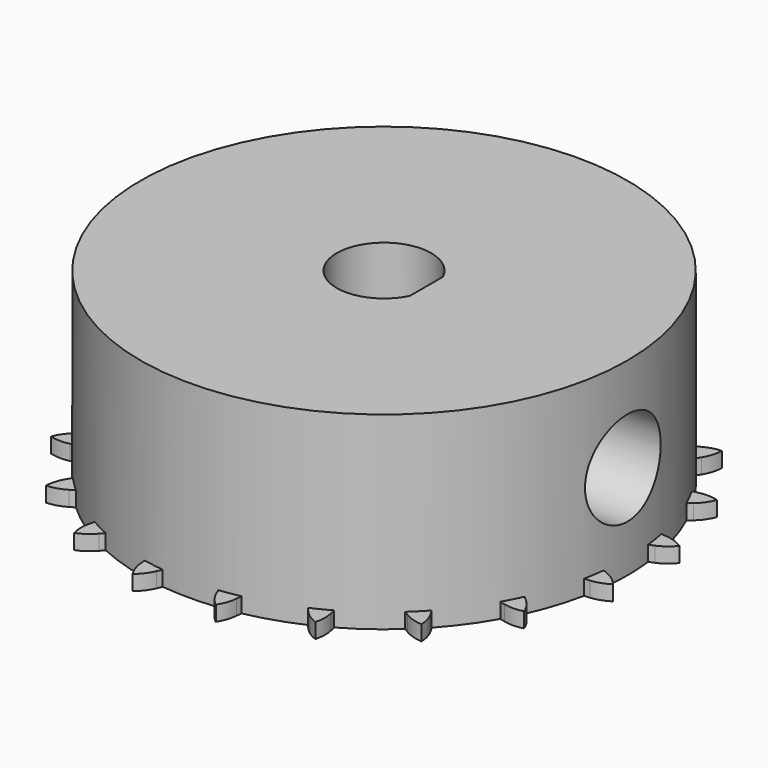
from build123d import *

# Parameters (mm, degrees)
PAD_DEPTH        = 0.8
SKETCH_R         = 12.875
PAD001_DEPTH     = 10
POCKET_DEPTH     = 20
HOLE_D           = 3.25
HOLE_DEPTH       = 16
HOLE_CBORE_D     = 5
HOLE_CBORE_DEPTH = 7.5


with BuildPart() as part:
    # Sprocket → Pad (new body)
    with BuildSketch(Plane.XY):
        with BuildLine():
            ThreePointArc((-2.196217, 13.866366), (-1.837454, 13.501085), (-1.581238, 13.057808))
            Line((-1.581238, 13.057808), (-1.460918, 12.77158))
            ThreePointArc((-1.460918, 12.77158), (-1.2654, 12.381139), (-1.019962, 12.019987))
            ThreePointArc((-1.019962, 12.019987), (-0.567406, 11.653515), (0, 11.522519))
            ThreePointArc((0, 11.522519), (0.567406, 11.653515), (1.019962, 12.019987))
            ThreePointArc((1.019962, 12.019987), (1.2654, 12.381139), (1.460918, 12.77158))
            Line((1.460918, 12.77158), (1.581238, 13.057808))
            ThreePointArc((1.581238, 13.057808), (1.837454, 13.501085), (2.196217, 13.866366))
            ThreePointArc((2.196217, 13.866366), (2.424543, 13.408099), (2.531238, 12.907343))
            Line((2.531238, 12.907343), (2.557219, 12.597943))
            ThreePointArc((2.557219, 12.597943), (2.622515, 12.166193), (2.744339, 11.746873))
            ThreePointArc((2.744339, 11.746873), (3.061499, 11.258489), (3.560654, 10.958567))
            ThreePointArc((3.560654, 10.958567), (4.140769, 10.907813), (4.684422, 11.116502))
            Line((4.684422, 11.116502), (5.336051, 11.695045))
            ThreePointArc((5.336051, 11.695045), (5.43472, 11.814956), (5.538931, 11.930084))
            ThreePointArc((5.538931, 11.930084), (5.919587, 12.272491), (6.373669, 12.50903))
            ThreePointArc((6.373669, 12.50903), (6.449208, 12.002635), (6.395939, 11.493417))
            Line((6.395939, 11.493417), (6.325038, 11.191131))
            ThreePointArc((6.325038, 11.191131), (6.253721, 10.760336), (6.240005, 10.323892))
            ThreePointArc((6.240005, 10.323892), (6.390723, 9.761404), (6.772767, 9.321913))
            ThreePointArc((6.772767, 9.321913), (7.308805, 9.094379), (7.890338, 9.124856))
            Line((7.890338, 9.124856), (8.688854, 9.473719))
            ThreePointArc((8.688854, 9.473719), (8.819749, 9.55727), (8.954435, 9.63456))
            ThreePointArc((8.954435, 9.63456), (9.42227, 9.842579), (9.927222, 9.927222))
            ThreePointArc((9.927222, 9.927222), (9.842579, 9.42227), (9.63456, 8.954435))
            Line((9.63456, 8.954435), (9.473719, 8.688854))
            ThreePointArc((9.473719, 8.688854), (9.272768, 8.301182), (9.124856, 7.890338))
            ThreePointArc((9.124856, 7.890338), (9.094379, 7.308805), (9.321913, 6.772767))
            ThreePointArc((9.321913, 6.772767), (9.761404, 6.390723), (10.323892, 6.240005))
            Line((10.323892, 6.240005), (11.191131, 6.325038))
            ThreePointArc((11.191131, 6.325038), (11.341438, 6.364052), (11.493417, 6.395939))
            ThreePointArc((11.493417, 6.395939), (12.002635, 6.449208), (12.50903, 6.373669))
            ThreePointArc((12.50903, 6.373669), (12.272491, 5.919587), (11.930084, 5.538931))
            Line((11.930084, 5.538931), (11.695045, 5.336051))
            ThreePointArc((11.695045, 5.336051), (11.384133, 5.02945), (11.116502, 4.684422))
            ThreePointArc((11.116502, 4.684422), (10.907813, 4.140769), (10.958567, 3.560654))
            ThreePointArc((10.958567, 3.560654), (11.258489, 3.061499), (11.746873, 2.744339))
            Line((11.746873, 2.744339), (12.597943, 2.557219))
            ThreePointArc((12.597943, 2.557219), (12.752949, 2.547876), (12.907343, 2.531238))
            ThreePointArc((12.907343, 2.531238), (13.408099, 2.424543), (13.866366, 2.196217))
            ThreePointArc((13.866366, 2.196217), (13.501085, 1.837454), (13.057808, 1.581238))
            Line((13.057808, 1.581238), (12.77158, 1.460918))
            ThreePointArc((12.77158, 1.460918), (12.381139, 1.2654), (12.019987, 1.019962))
            ThreePointArc((12.019987, 1.019962), (11.653515, 0.567406), (11.522519, 0))
            ThreePointArc((11.522519, 0), (11.653515, -0.567406), (12.019987, -1.019962))
            Line((12.019987, -1.019962), (12.77158, -1.460918))
            ThreePointArc((12.77158, -1.460918), (12.916112, -1.517704), (13.057808, -1.581238))
            ThreePointArc((13.057808, -1.581238), (13.501085, -1.837454), (13.866366, -2.196217))
            ThreePointArc((13.866366, -2.196217), (13.408099, -2.424543), (12.907343, -2.531238))
            Line((12.907343, -2.531238), (12.597943, -2.557219))
            ThreePointArc((12.597943, -2.557219), (12.166193, -2.622515), (11.746873, -2.744339))
            ThreePointArc((11.746873, -2.744339), (11.258489, -3.061499), (10.958567, -3.560654))
            ThreePointArc((10.958567, -3.560654), (10.907813, -4.140769), (11.116502, -4.684422))
            Line((11.116502, -4.684422), (11.695045, -5.336051))
            ThreePointArc((11.695045, -5.336051), (11.814956, -5.43472), (11.930084, -5.538931))
            ThreePointArc((11.930084, -5.538931), (12.272491, -5.919587), (12.50903, -6.373669))
            ThreePointArc((12.50903, -6.373669), (12.002635, -6.449208), (11.493417, -6.395939))
            Line((11.493417, -6.395939), (11.191131, -6.325038))
            ThreePointArc((11.191131, -6.325038), (10.760336, -6.253721), (10.323892, -6.240005))
            ThreePointArc((10.323892, -6.240005), (9.761404, -6.390723), (9.321913, -6.772767))
            ThreePointArc((9.321913, -6.772767), (9.094379, -7.308805), (9.124856, -7.890338))
            Line((9.124856, -7.890338), (9.473719, -8.688854))
            ThreePointArc((9.473719, -8.688854), (9.55727, -8.819749), (9.63456, -8.954435))
            ThreePointArc((9.63456, -8.954435), (9.842579, -9.42227), (9.927222, -9.927222))
            ThreePointArc((9.927222, -9.927222), (9.42227, -9.842579), (8.954435, -9.63456))
            Line((8.954435, -9.63456), (8.688854, -9.473719))
            ThreePointArc((8.688854, -9.473719), (8.301182, -9.272768), (7.890338, -9.124856))
            ThreePointArc((7.890338, -9.124856), (7.308805, -9.094379), (6.772767, -9.321913))
            ThreePointArc((6.772767, -9.321913), (6.390723, -9.761404), (6.240005, -10.323892))
            Line((6.240005, -10.323892), (6.325038, -11.191131))
            ThreePointArc((6.325038, -11.191131), (6.364052, -11.341438), (6.395939, -11.493417))
            ThreePointArc((6.395939, -11.493417), (6.449208, -12.002635), (6.373669, -12.50903))
            ThreePointArc((6.373669, -12.50903), (5.919587, -12.272491), (5.538931, -11.930084))
            Line((5.538931, -11.930084), (5.336051, -11.695045))
            ThreePointArc((5.336051, -11.695045), (5.02945, -11.384133), (4.684422, -11.116502))
            ThreePointArc((4.684422, -11.116502), (4.140769, -10.907813), (3.560654, -10.958567))
            ThreePointArc((3.560654, -10.958567), (3.061499, -11.258489), (2.744339, -11.746873))
            Line((2.744339, -11.746873), (2.557219, -12.597943))
            ThreePointArc((2.557219, -12.597943), (2.547876, -12.752949), (2.531238, -12.907343))
            ThreePointArc((2.531238, -12.907343), (2.424543, -13.408099), (2.196217, -13.866366))
            ThreePointArc((2.196217, -13.866366), (1.837454, -13.501085), (1.581238, -13.057808))
            Line((1.581238, -13.057808), (1.460918, -12.77158))
            ThreePointArc((1.460918, -12.77158), (1.2654, -12.381139), (1.019962, -12.019987))
            ThreePointArc((1.019962, -12.019987), (0.567406, -11.653515), (0, -11.522519))
            ThreePointArc((0, -11.522519), (-0.567406, -11.653515), (-1.019962, -12.019987))
            Line((-1.019962, -12.019987), (-1.460918, -12.77158))
            ThreePointArc((-1.460918, -12.77158), (-1.517704, -12.916112), (-1.581238, -13.057808))
            ThreePointArc((-1.581238, -13.057808), (-1.837454, -13.501085), (-2.196217, -13.866366))
            ThreePointArc((-2.196217, -13.866366), (-2.424543, -13.408099), (-2.531238, -12.907343))
            Line((-2.531238, -12.907343), (-2.557219, -12.597943))
            ThreePointArc((-2.557219, -12.597943), (-2.622515, -12.166193), (-2.744339, -11.746873))
            ThreePointArc((-2.744339, -11.746873), (-3.061499, -11.258489), (-3.560654, -10.958567))
            ThreePointArc((-3.560654, -10.958567), (-4.140769, -10.907813), (-4.684422, -11.116502))
            Line((-4.684422, -11.116502), (-5.336051, -11.695045))
            ThreePointArc((-5.336051, -11.695045), (-5.43472, -11.814956), (-5.538931, -11.930084))
            ThreePointArc((-5.538931, -11.930084), (-5.919587, -12.272491), (-6.373669, -12.50903))
            ThreePointArc((-6.373669, -12.50903), (-6.449208, -12.002635), (-6.395939, -11.493417))
            Line((-6.395939, -11.493417), (-6.325038, -11.191131))
            ThreePointArc((-6.325038, -11.191131), (-6.253721, -10.760336), (-6.240005, -10.323892))
            ThreePointArc((-6.240005, -10.323892), (-6.390723, -9.761404), (-6.772767, -9.321913))
            ThreePointArc((-6.772767, -9.321913), (-7.308805, -9.094379), (-7.890338, -9.124856))
            Line((-7.890338, -9.124856), (-8.688854, -9.473719))
            ThreePointArc((-8.688854, -9.473719), (-8.819749, -9.55727), (-8.954435, -9.63456))
            ThreePointArc((-8.954435, -9.63456), (-9.42227, -9.842579), (-9.927222, -9.927222))
            ThreePointArc((-9.927222, -9.927222), (-9.842579, -9.42227), (-9.63456, -8.954435))
            Line((-9.63456, -8.954435), (-9.473719, -8.688854))
            ThreePointArc((-9.473719, -8.688854), (-9.272768, -8.301182), (-9.124856, -7.890338))
            ThreePointArc((-9.124856, -7.890338), (-9.094379, -7.308805), (-9.321913, -6.772767))
            ThreePointArc((-9.321913, -6.772767), (-9.761404, -6.390723), (-10.323892, -6.240005))
            Line((-10.323892, -6.240005), (-11.191131, -6.325038))
            ThreePointArc((-11.191131, -6.325038), (-11.341438, -6.364052), (-11.493417, -6.395939))
            ThreePointArc((-11.493417, -6.395939), (-12.002635, -6.449208), (-12.50903, -6.373669))
            ThreePointArc((-12.50903, -6.373669), (-12.272491, -5.919587), (-11.930084, -5.538931))
            Line((-11.930084, -5.538931), (-11.695045, -5.336051))
            ThreePointArc((-11.695045, -5.336051), (-11.384133, -5.02945), (-11.116502, -4.684422))
            ThreePointArc((-11.116502, -4.684422), (-10.907813, -4.140769), (-10.958567, -3.560654))
            ThreePointArc((-10.958567, -3.560654), (-11.258489, -3.061499), (-11.746873, -2.744339))
            Line((-11.746873, -2.744339), (-12.597943, -2.557219))
            ThreePointArc((-12.597943, -2.557219), (-12.752949, -2.547876), (-12.907343, -2.531238))
            ThreePointArc((-12.907343, -2.531238), (-13.408099, -2.424543), (-13.866366, -2.196217))
            ThreePointArc((-13.866366, -2.196217), (-13.501085, -1.837454), (-13.057808, -1.581238))
            Line((-13.057808, -1.581238), (-12.77158, -1.460918))
            ThreePointArc((-12.77158, -1.460918), (-12.381139, -1.2654), (-12.019987, -1.019962))
            ThreePointArc((-12.019987, -1.019962), (-11.653515, -0.567406), (-11.522519, 0))
            ThreePointArc((-11.522519, 0), (-11.653515, 0.567406), (-12.019987, 1.019962))
            Line((-12.019987, 1.019962), (-12.77158, 1.460918))
            ThreePointArc((-12.77158, 1.460918), (-12.916112, 1.517704), (-13.057808, 1.581238))
            ThreePointArc((-13.057808, 1.581238), (-13.501085, 1.837454), (-13.866366, 2.196217))
            ThreePointArc((-13.866366, 2.196217), (-13.408099, 2.424543), (-12.907343, 2.531238))
            Line((-12.907343, 2.531238), (-12.597943, 2.557219))
            ThreePointArc((-12.597943, 2.557219), (-12.166193, 2.622515), (-11.746873, 2.744339))
            ThreePointArc((-11.746873, 2.744339), (-11.258489, 3.061499), (-10.958567, 3.560654))
            ThreePointArc((-10.958567, 3.560654), (-10.907813, 4.140769), (-11.116502, 4.684422))
            Line((-11.116502, 4.684422), (-11.695045, 5.336051))
            ThreePointArc((-11.695045, 5.336051), (-11.814956, 5.43472), (-11.930084, 5.538931))
            ThreePointArc((-11.930084, 5.538931), (-12.272491, 5.919587), (-12.50903, 6.373669))
            ThreePointArc((-12.50903, 6.373669), (-12.002635, 6.449208), (-11.493417, 6.395939))
            Line((-11.493417, 6.395939), (-11.191131, 6.325038))
            ThreePointArc((-11.191131, 6.325038), (-10.760336, 6.253721), (-10.323892, 6.240005))
            ThreePointArc((-10.323892, 6.240005), (-9.761404, 6.390723), (-9.321913, 6.772767))
            ThreePointArc((-9.321913, 6.772767), (-9.094379, 7.308805), (-9.124856, 7.890338))
            Line((-9.124856, 7.890338), (-9.473719, 8.688854))
            ThreePointArc((-9.473719, 8.688854), (-9.55727, 8.819749), (-9.63456, 8.954435))
            ThreePointArc((-9.63456, 8.954435), (-9.842579, 9.42227), (-9.927222, 9.927222))
            ThreePointArc((-9.927222, 9.927222), (-9.42227, 9.842579), (-8.954435, 9.63456))
            Line((-8.954435, 9.63456), (-8.688854, 9.473719))
            ThreePointArc((-8.688854, 9.473719), (-8.301182, 9.272768), (-7.890338, 9.124856))
            ThreePointArc((-7.890338, 9.124856), (-7.308805, 9.094379), (-6.772767, 9.321913))
            ThreePointArc((-6.772767, 9.321913), (-6.390723, 9.761404), (-6.240005, 10.323892))
            Line((-6.240005, 10.323892), (-6.325038, 11.191131))
            ThreePointArc((-6.325038, 11.191131), (-6.364052, 11.341438), (-6.395939, 11.493417))
            ThreePointArc((-6.395939, 11.493417), (-6.449208, 12.002635), (-6.373669, 12.50903))
            ThreePointArc((-6.373669, 12.50903), (-5.919587, 12.272491), (-5.538931, 11.930084))
            Line((-5.538931, 11.930084), (-5.336051, 11.695045))
            ThreePointArc((-5.336051, 11.695045), (-5.02945, 11.384133), (-4.684422, 11.116502))
            ThreePointArc((-4.684422, 11.116502), (-4.140769, 10.907813), (-3.560654, 10.958567))
            ThreePointArc((-3.560654, 10.958567), (-3.061499, 11.258489), (-2.744339, 11.746873))
            Line((-2.744339, 11.746873), (-2.557219, 12.597943))
            ThreePointArc((-2.557219, 12.597943), (-2.547876, 12.752949), (-2.531238, 12.907343))
            ThreePointArc((-2.531238, 12.907343), (-2.424543, 13.408099), (-2.196217, 13.866366))
        make_face()
    extrude(amount=PAD_DEPTH)

    # Sketch → Pad001 (join)
    with BuildSketch(Plane.XY):
        Circle(SKETCH_R)
    extrude(amount=PAD001_DEPTH)

    # Sketch001 → Pocket (cut)
    with BuildSketch(Plane.XY):
        with BuildLine():
            Line((2.25, 1.089725), (2.25, -1.089725))
            ThreePointArc((2.25, 1.089725), (-2.5, 0), (2.25, -1.089725))
        make_face()
    extrude(amount=POCKET_DEPTH, mode=Mode.SUBTRACT)

    # Hole
    with Locations(Plane.YZ.offset(15)):
        with Locations((0, 5)):
            CounterBoreHole(HOLE_D / 2, HOLE_CBORE_D / 2, HOLE_CBORE_DEPTH, depth=HOLE_DEPTH)


solid = part.part
